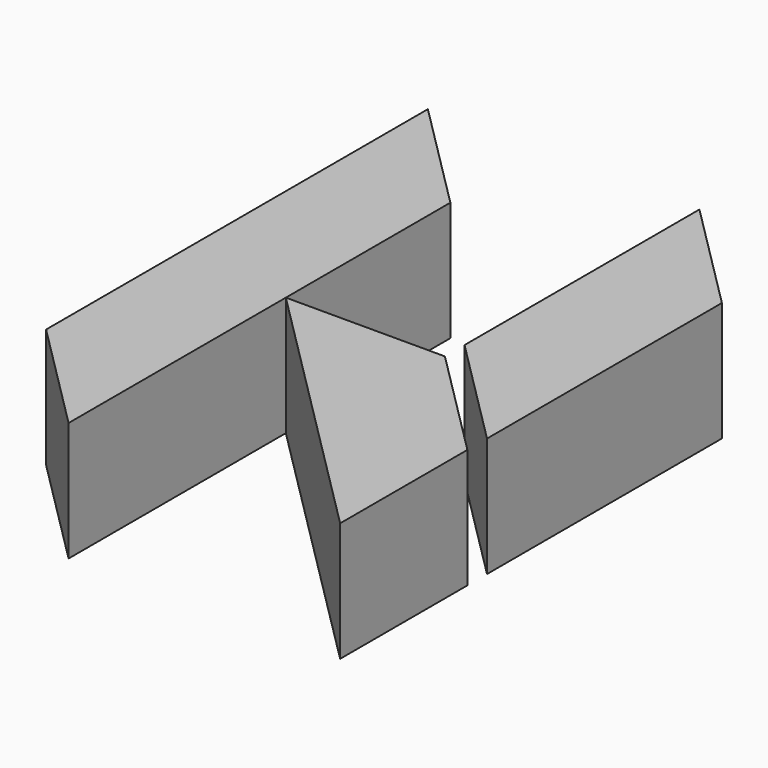
from build123d import *

# Parameters (mm, degrees)
F1_DEPTH = 15


with BuildPart() as f1:
    # F0 (on Top) → F1 (new body)
    with BuildSketch(Plane.XY):
        Polygon((-20, 25.857864), (-34.142136, 40), (-34.142136, -20), (-20, -34.142136), (-20, 0), align=None)
        Polygon((14.142136, 25.857864), (0, 40), (0, 3.083084), (14.142136, -11.059052), align=None)
        Polygon((0, 0), (-20, 0), (14.142136, -34.142136), (14.142136, -14.142136), align=None)
    extrude(amount=F1_DEPTH)


solid = f1.part
